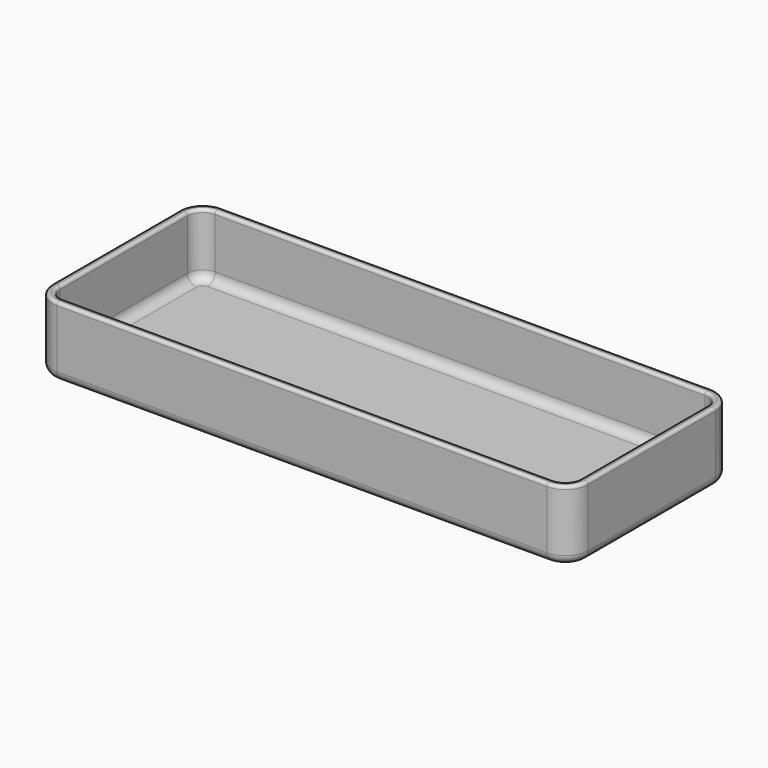
from build123d import *

# Parameters (mm, degrees)
F1_DEPTH = 2.5
F2_DEPTH = 23
F3_R     = 3
F4_R     = 1
F5_R     = 3


with BuildPart() as f1:
    # F0 (on Top) → F1 (new body)
    with BuildSketch(Plane.XY):
        with BuildLine():
            Line((80.771052, 39.371213), (-79.228948, 39.371213))
            ThreePointArc((-79.228948, 39.371213), (-84.532249, 37.174514), (-86.728948, 31.871213))
            Line((-86.728948, 31.871213), (-86.728948, -20.128787))
            ThreePointArc((-86.728948, -20.128787), (-84.532249, -25.432087), (-79.228948, -27.628787))
            Line((-79.228948, -27.628787), (80.771052, -27.628787))
            ThreePointArc((80.771052, -27.628787), (86.074353, -25.432087), (88.271052, -20.128787))
            Line((88.271052, -20.128787), (88.271052, 31.871213))
            ThreePointArc((88.271052, 31.871213), (86.074353, 37.174514), (80.771052, 39.371213))
        make_face()
        with BuildLine():
            ThreePointArc((-84.228948, 31.871213), (-82.764482, 35.406747), (-79.228948, 36.871213))
            Line((-79.228948, 36.871213), (80.771052, 36.871213))
            ThreePointArc((80.771052, 36.871213), (84.306586, 35.406747), (85.771052, 31.871213))
            Line((85.771052, 31.871213), (85.771052, -20.128787))
            ThreePointArc((85.771052, -20.128787), (84.306586, -23.66432), (80.771052, -25.128787))
            Line((80.771052, -25.128787), (-79.228948, -25.128787))
            ThreePointArc((-79.228948, -25.128787), (-82.764482, -23.66432), (-84.228948, -20.128787))
            Line((-84.228948, -20.128787), (-84.228948, 31.871213))
        make_face(mode=Mode.SUBTRACT)
        with BuildLine():
            Line((80.771052, 36.871213), (-79.228948, 36.871213))
            ThreePointArc((-79.228948, 36.871213), (-82.764482, 35.406747), (-84.228948, 31.871213))
            Line((-84.228948, 31.871213), (-84.228948, -20.128787))
            ThreePointArc((-84.228948, -20.128787), (-82.764482, -23.66432), (-79.228948, -25.128787))
            Line((-79.228948, -25.128787), (80.771052, -25.128787))
            ThreePointArc((80.771052, -25.128787), (84.306586, -23.66432), (85.771052, -20.128787))
            Line((85.771052, -20.128787), (85.771052, 31.871213))
            ThreePointArc((85.771052, 31.871213), (84.306586, 35.406747), (80.771052, 36.871213))
        make_face()
    extrude(amount=F1_DEPTH)

    # F0 (on Top) → F2 (join)
    with BuildSketch(Plane.XY):
        with BuildLine():
            Line((80.771052, 39.371213), (-79.228948, 39.371213))
            ThreePointArc((-79.228948, 39.371213), (-84.532249, 37.174514), (-86.728948, 31.871213))
            Line((-86.728948, 31.871213), (-86.728948, -20.128787))
            ThreePointArc((-86.728948, -20.128787), (-84.532249, -25.432087), (-79.228948, -27.628787))
            Line((-79.228948, -27.628787), (80.771052, -27.628787))
            ThreePointArc((80.771052, -27.628787), (86.074353, -25.432087), (88.271052, -20.128787))
            Line((88.271052, -20.128787), (88.271052, 31.871213))
            ThreePointArc((88.271052, 31.871213), (86.074353, 37.174514), (80.771052, 39.371213))
        make_face()
        with BuildLine():
            ThreePointArc((-84.228948, 31.871213), (-82.764482, 35.406747), (-79.228948, 36.871213))
            Line((-79.228948, 36.871213), (80.771052, 36.871213))
            ThreePointArc((80.771052, 36.871213), (84.306586, 35.406747), (85.771052, 31.871213))
            Line((85.771052, 31.871213), (85.771052, -20.128787))
            ThreePointArc((85.771052, -20.128787), (84.306586, -23.66432), (80.771052, -25.128787))
            Line((80.771052, -25.128787), (-79.228948, -25.128787))
            ThreePointArc((-79.228948, -25.128787), (-82.764482, -23.66432), (-84.228948, -20.128787))
            Line((-84.228948, -20.128787), (-84.228948, 31.871213))
        make_face(mode=Mode.SUBTRACT)
    extrude(amount=F2_DEPTH)

    # F3
    f3_edges = [f1.edges().sort_by_distance(p)[0] for p in [
        (0.771052, 39.371213, 0),
        (-84.532249, 37.174514, 0),
        (-86.728948, 5.871213, 0),
        (-84.532249, -25.432087, 0),
        (0.771052, -27.628787, 0),
        (86.074353, -25.432087, 0),
        (88.271052, 5.871213, 0),
        (86.074353, 37.174514, 0),
    ]]
    fillet(f3_edges, radius=F3_R)

    # F4
    f4_edges = [f1.edges().sort_by_distance(p)[0] for p in [
        (0.771052, 39.371213, 23),
        (-84.532249, 37.174514, 23),
        (-86.728948, 5.871213, 23),
        (-84.532249, -25.432087, 23),
        (0.771052, -27.628787, 23),
        (86.074353, -25.432087, 23),
        (88.271052, 5.871213, 23),
        (86.074353, 37.174514, 23),
        (-84.228948, 5.871213, 23),
        (-82.764482, 35.406747, 23),
        (0.771052, 36.871213, 23),
        (84.306586, 35.406747, 23),
        (85.771052, 5.871213, 23),
        (84.306586, -23.66432, 23),
        (0.771052, -25.128787, 23),
        (-82.764482, -23.66432, 23),
    ]]
    fillet(f4_edges, radius=F4_R)

    # F5
    f5_edges = [f1.edges().sort_by_distance(p)[0] for p in [
        (0.771052, -25.128787, 2.5),
        (84.306586, -23.66432, 2.5),
        (0.771052, 36.871213, 2.5),
        (84.306586, 35.406747, 2.5),
        (-82.764482, -23.66432, 2.5),
        (-84.228948, 5.871213, 2.5),
        (-82.764482, 35.406747, 2.5),
        (85.771052, 5.871213, 2.5),
    ]]
    fillet(f5_edges, radius=F5_R)


solid = f1.part
